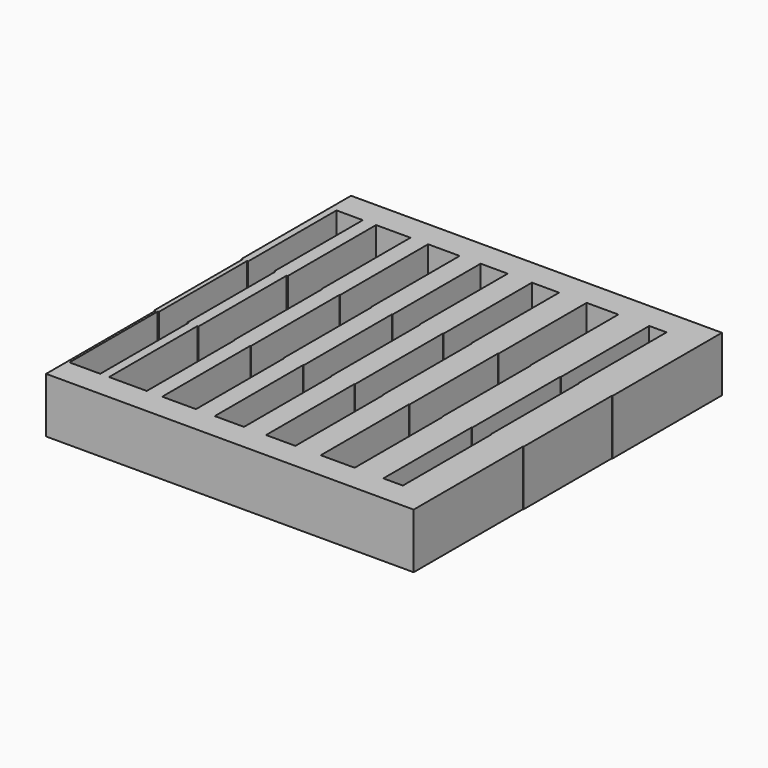
from build123d import *

# Parameters (mm, degrees)
F0_W     = 0.2
F0_H     = 10
F0_W_2   = 2.9
F0_W_3   = 2.6
F0_W_4   = 2.3
F0_W_5   = 2
F0_W_6   = 1.7
F0_W_7   = 1.4
F0_W_8   = 0.8
F1_DEPTH = 5


with BuildPart() as f1:
    # F0 (on Top) → F1 (new body)
    with BuildSketch(Plane.XY):
        with Locations((-34.0027, -25)):
            Rectangle(F0_W, F0_H)
        Polygon((-33.9027, -30), (-34.1027, -30), (-34.1027, -32.4), (-0.786174, -32.4), (-0.786174, -30), (-3.686174, -30), (-5.454433, -30), (-8.054433, -30), (-11.126836, -30), (-13.426836, -30), (-16.084759, -30), (-18.084759, -30), (-20.736083, -30), (-22.436083, -30), (-25.499359, -30), (-26.899359, -30), (-30.313995, -30), (-31.113995, -30), align=None)
        Polygon((-34.2027, -20), (-34.1027, -20), (-33.9027, -20), (-33.8027, -20), (-33.8027, -10), (-34.2027, -10), align=None)
        Polygon((-34.3027, -10), (-34.2027, -10), (-33.8027, -10), (-33.7027, -10), (-33.7027, 0), (-34.3027, 0), align=None)
        with Locations((-2.236174, -25)):
            Rectangle(F0_W_2, F0_H)
        Polygon((-3.686174, -20), (-0.786174, -20), (-0.736174, -20), (-0.736174, -10), (-3.736174, -10), (-3.736174, -20), align=None)
        Polygon((-34.3027, 2.4), (-34.3027, 0), (-33.7027, 0), (-31.313995, 0), (-30.113995, 0), (-26.999359, 0), (-25.399359, 0), (-22.536083, 0), (-20.636083, 0), (-18.184759, 0), (-15.984759, 0), (-13.526836, 0), (-11.026836, 0), (-8.154433, 0), (-5.354433, 0), (-3.786174, 0), (-0.686174, 0), (-0.686174, 2.4), align=None)
        Polygon((-3.736174, -10), (-0.736174, -10), (-0.686174, -10), (-0.686174, 0), (-3.786174, 0), (-3.786174, -10), align=None)
        Polygon((-31.313995, -10), (-31.213995, -10), (-30.213995, -10), (-30.113995, -10), (-30.113995, 0), (-31.313995, 0), align=None)
        Polygon((-26.999359, -10), (-26.949359, -10), (-25.449359, -10), (-25.399359, -10), (-25.399359, 0), (-26.999359, 0), align=None)
        Polygon((-22.536083, -10), (-22.486083, -10), (-20.686083, -10), (-20.636083, -10), (-20.636083, 0), (-22.536083, 0), align=None)
        Polygon((-18.184759, -10), (-18.134759, -10), (-16.034759, -10), (-15.984759, -10), (-15.984759, 0), (-18.184759, 0), align=None)
        Polygon((-13.476836, -10), (-11.076836, -10), (-11.026836, -10), (-11.026836, 0), (-13.526836, 0), (-13.526836, -10), align=None)
        Polygon((-8.104433, -10), (-5.404433, -10), (-5.354433, -10), (-5.354433, 0), (-8.154433, 0), (-8.154433, -10), align=None)
        with Locations((-6.754433, -25)):
            Rectangle(F0_W_3, F0_H)
        with Locations((-12.276836, -25)):
            Rectangle(F0_W_4, F0_H)
        Polygon((-13.426836, -20), (-11.126836, -20), (-11.076836, -20), (-11.076836, -10), (-13.476836, -10), (-13.476836, -20), align=None)
        Polygon((-18.134759, -20), (-18.084759, -20), (-16.084759, -20), (-16.034759, -20), (-16.034759, -10), (-18.134759, -10), align=None)
        with Locations((-17.084759, -25)):
            Rectangle(F0_W_5, F0_H)
        with Locations((-21.586083, -25)):
            Rectangle(F0_W_6, F0_H)
        Polygon((-22.486083, -20), (-22.436083, -20), (-20.736083, -20), (-20.686083, -20), (-20.686083, -10), (-22.486083, -10), align=None)
        Polygon((-26.949359, -20), (-26.899359, -20), (-25.499359, -20), (-25.449359, -20), (-25.449359, -10), (-26.949359, -10), align=None)
        with Locations((-26.199359, -25)):
            Rectangle(F0_W_7, F0_H)
        Polygon((-31.213995, -20), (-31.113995, -20), (-30.313995, -20), (-30.213995, -20), (-30.213995, -10), (-31.213995, -10), align=None)
        with Locations((-30.713995, -25)):
            Rectangle(F0_W_8, F0_H)
        Polygon((-8.054433, -20), (-5.454433, -20), (-5.404433, -20), (-5.404433, -10), (-8.104433, -10), (-8.104433, -20), align=None)
    extrude(amount=F1_DEPTH)


solid = f1.part
